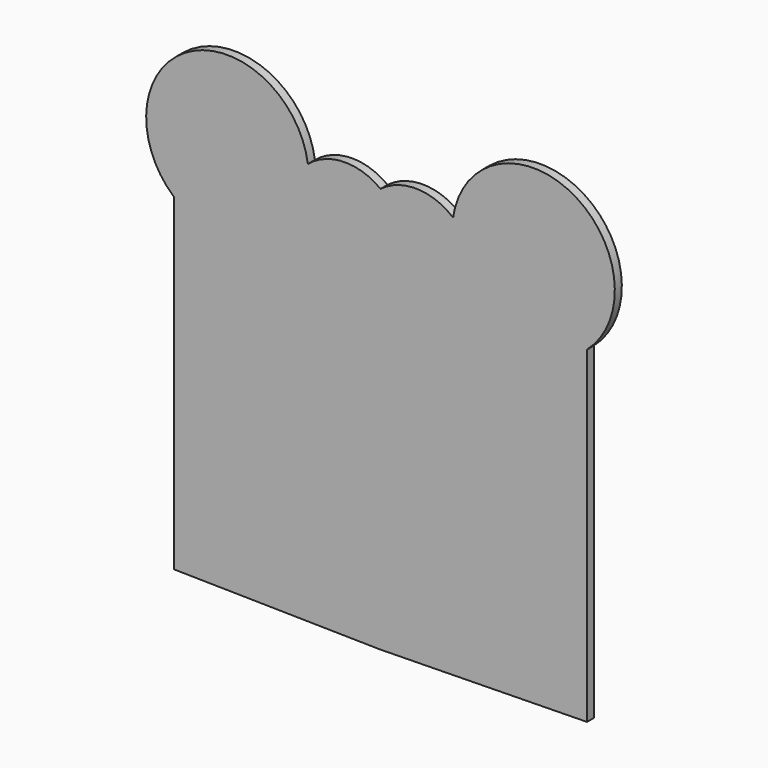
from build123d import *

# Parameters (mm, degrees)
F1_DEPTH = 25.4


with BuildPart() as f1:
    # F0 (on Front) → F1 (new body)
    with BuildSketch(Plane.XZ):
        with BuildLine():
            Line((-1193.8, -381.5368448116), (-596.9, -391.724095189))
            Line((-596.9, -391.724095189), (-596.9, 512.9053653959))
            ThreePointArc((-596.9, 512.9053653959), (-663.2456615259, 646.7658202716), (-596.9, 780.6262751473))
            ThreePointArc((-596.9, 780.6262751473), (-702.6851038891, 814.9329026686), (-806.7577040488, 775.7368978631))
            ThreePointArc((-806.7577040488, 775.7368978631), (-1151.237795319, 949.2227807014), (-1193.8, 565.8791443144))
            Line((-1193.8, 565.8791443144), (-1193.8, -381.5368448116))
        make_face()
        with BuildLine():
            Line((-596.9, 512.9053653959), (-596.9, -391.724095189))
            Line((-596.9, -391.724095189), (0, -381.5368448116))
            Line((0, -381.5368448116), (0, 565.8791443144))
            ThreePointArc((0, 565.8791443144), (-42.562204681, 949.2227807014), (-387.0422959512, 775.7368978631))
            ThreePointArc((-387.0422959512, 775.7368978631), (-491.1148961109, 814.9329026686), (-596.9, 780.6262751473))
            ThreePointArc((-596.9, 780.6262751473), (-530.5543384741, 646.7658202716), (-596.9, 512.9053653959))
        make_face()
        with BuildLine():
            ThreePointArc((-596.9, 780.6262751473), (-663.2456615259, 646.7658202716), (-596.9, 512.9053653959))
            ThreePointArc((-596.9, 512.9053653959), (-530.5543384741, 646.7658202716), (-596.9, 780.6262751473))
        make_face()
    extrude(amount=F1_DEPTH)


solid = f1.part
